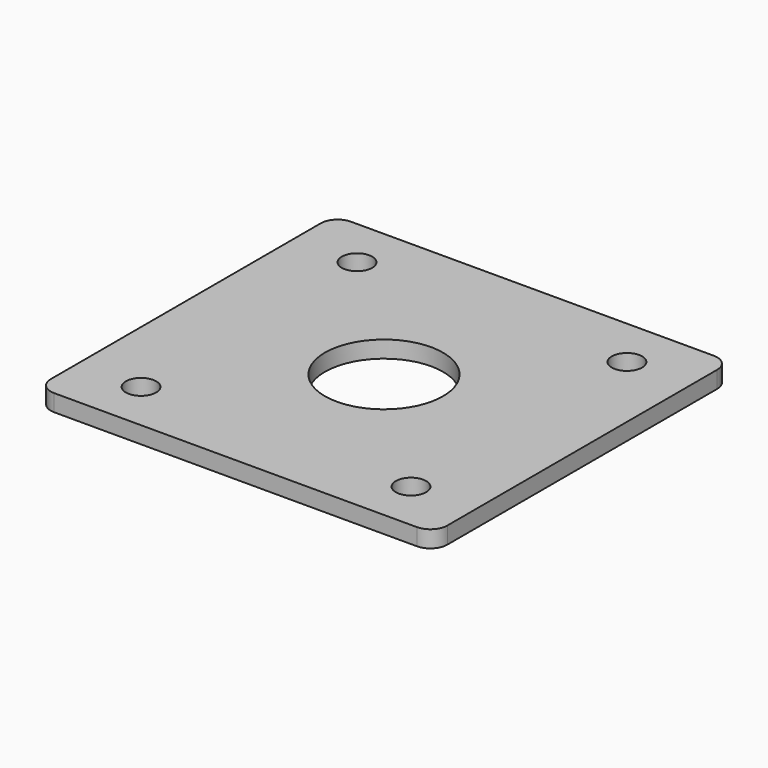
from build123d import *

# Parameters (mm, degrees)
SKETCH019_W             = 47
SKETCH019_H             = 44
PAD004_DEPTH            = 2
SKETCH018_R             = 7
HOLE008_DEPTH           = 25
SKETCH017_R             = 1.8
HOLE007_DEPTH           = 25
FILLET002_R             = 2
BODY005_PLACEMENT_ANGLE = 180


with BuildPart() as part:
    # Sketch019 → Pad004 (new body)
    with BuildSketch(Plane.XY):
        Rectangle(SKETCH019_W, SKETCH019_H)
    extrude(amount=PAD004_DEPTH)

    # Sketch018 (on DatumPlane) → Hole008 (cut)
    with BuildSketch(Plane.XY.offset(2)):
        Circle(SKETCH018_R)
    extrude(amount=-HOLE008_DEPTH, mode=Mode.SUBTRACT)

    # Sketch017 (on DatumPlane) → Hole007 (cut)
    with BuildSketch(Plane.XY.offset(2)):
        with Locations((-16, 16)):
            Circle(SKETCH017_R)
        with Locations((16, 16)):
            Circle(SKETCH017_R)
        with Locations((-16, -16)):
            Circle(SKETCH017_R)
        with Locations((16, -16)):
            Circle(SKETCH017_R)
    extrude(amount=-HOLE007_DEPTH, mode=Mode.SUBTRACT)

    # Fillet002
    fillet002_edges = [part.edges().sort_by_distance(p)[0] for p in [
        (-23.5, -22, 1),
        (23.5, -22, 1),
        (23.5, 22, 1),
        (-23.5, 22, 1),
    ]]
    fillet(fillet002_edges, radius=FILLET002_R)


with BuildPart() as part_1:
    # Body005 placement: moved
    add(part.part.moved(Location((0, 0, 27))).rotate(Axis((0, 0, 27), (0, 0, 1)), BODY005_PLACEMENT_ANGLE))


solid = part_1.part
